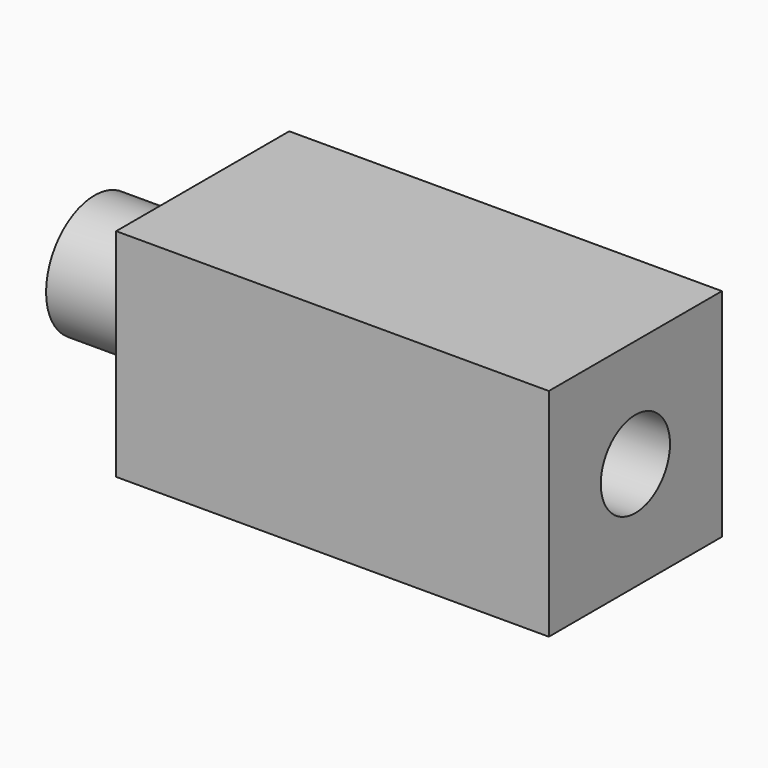
from build123d import *

# Parameters (mm, degrees)
F0_W     = 100
F0_H     = 50
F1_DEPTH = 50
F2_R     = 14
F2_R_2   = 12
F3_DEPTH = 25
F4_R     = 10
F5_DEPTH = 90


with BuildPart() as f1:
    # F0 (on Front) → F1 (new body)
    with BuildSketch(Plane.XZ):
        with Locations((55.64848, -2.676977)):
            Rectangle(F0_W, F0_H)
    extrude(amount=F1_DEPTH)

    # F2 (on face) → F3 (join)
    with BuildSketch(Plane(origin=(5.64848, 0, 0), x_dir=(0, -1, 0), z_dir=(-1, 0, 0))):
        with Locations((25, -2.676977)):
            Circle(F2_R)
        with Locations((25, -2.676977)):
            Circle(F2_R_2, mode=Mode.SUBTRACT)
    extrude(amount=F3_DEPTH)

    # F4 (on face) → F5 (cut)
    with BuildSketch(Plane.YZ.offset(105.64848)):
        with Locations((-25, -2.676977)):
            Circle(F4_R)
    extrude(amount=-F5_DEPTH, mode=Mode.SUBTRACT)


solid = f1.part
